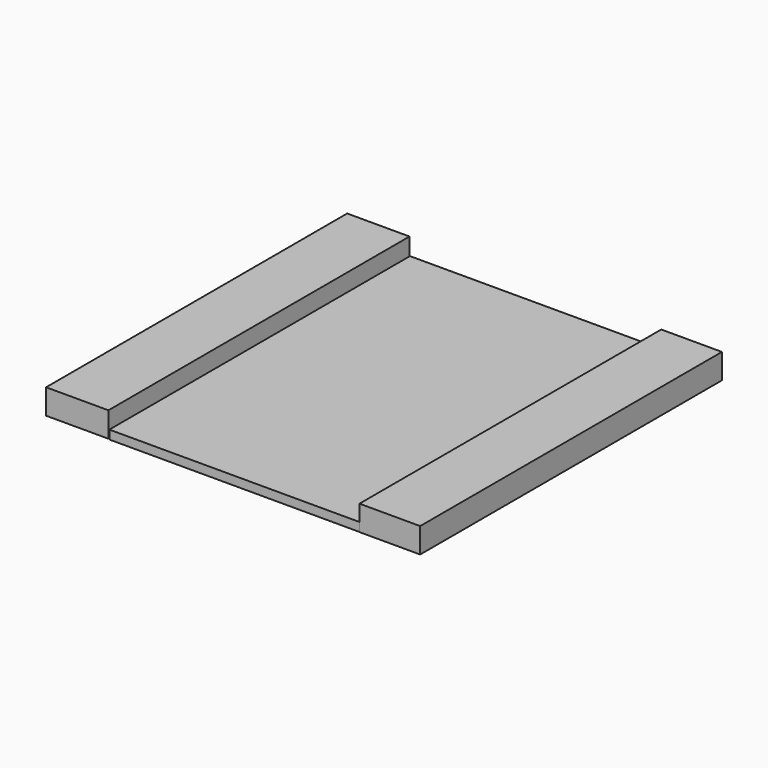
from build123d import *

# Parameters (mm, degrees)
F0_W     = 100
F0_H     = 150
F1_DEPTH = 3.5
F2_W     = 24.879296
F2_H     = 150.257848
F2_W_2   = 24.224576
F2_H_2   = 150.585204
F3_DEPTH = 10


with BuildPart() as f1:
    # F0 (on Top) → F1 (new body)
    with BuildSketch(Plane.XY):
        with Locations((1.366267, -2.382289)):
            Rectangle(F0_W, F0_H)
    extrude(amount=F1_DEPTH)

    # F2 (on Top) → F3 (join)
    with BuildSketch(Plane.XY):
        with Locations((-61.65467, -2.010349)):
            Rectangle(F2_W, F2_H)
        with Locations((63.396523, -2.174027)):
            Rectangle(F2_W_2, F2_H_2)
    extrude(amount=F3_DEPTH)


solid = f1.part
